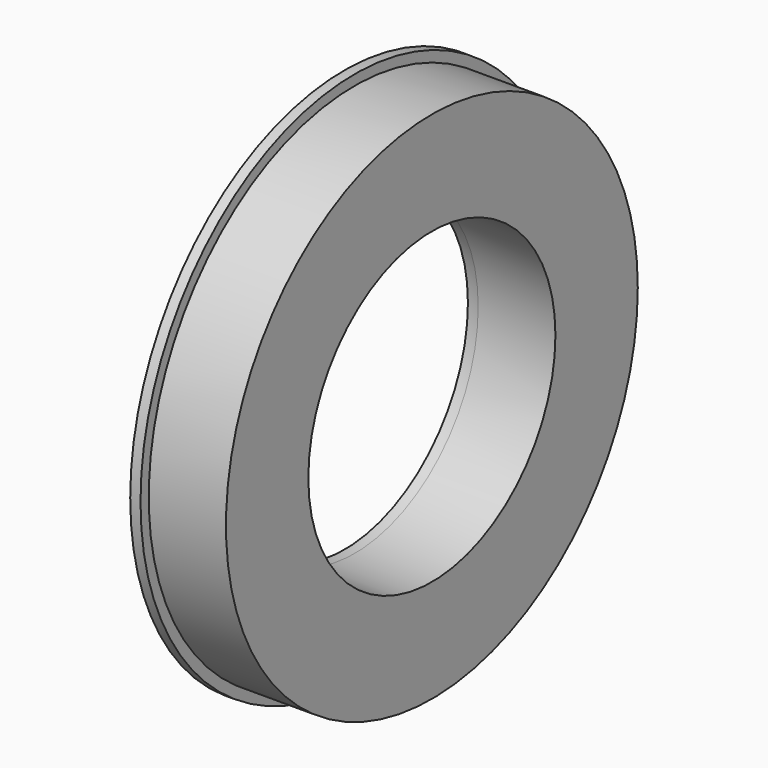
from build123d import *

# Parameters (mm, degrees)
F0_R     = 63.5
F0_R_2   = 38.1
F1_DEPTH = 19.05
F2_R     = 66.04
F2_R_2   = 38.1
F3_DEPTH = 2.54


with BuildPart() as f1:
    # F0 (on Right) → F1 (new body)
    with BuildSketch(Plane.YZ):
        Circle(F0_R)
        Circle(F0_R_2, mode=Mode.SUBTRACT)
    extrude(amount=F1_DEPTH)

    # F2 (on face) → F3 (join)
    with BuildSketch(Plane(origin=(0, 0, 0), x_dir=(0, -1, 0), z_dir=(-1, 0, 0))):
        Circle(F2_R)
        Circle(F2_R_2, mode=Mode.SUBTRACT)
    extrude(amount=F3_DEPTH)


solid = f1.part
